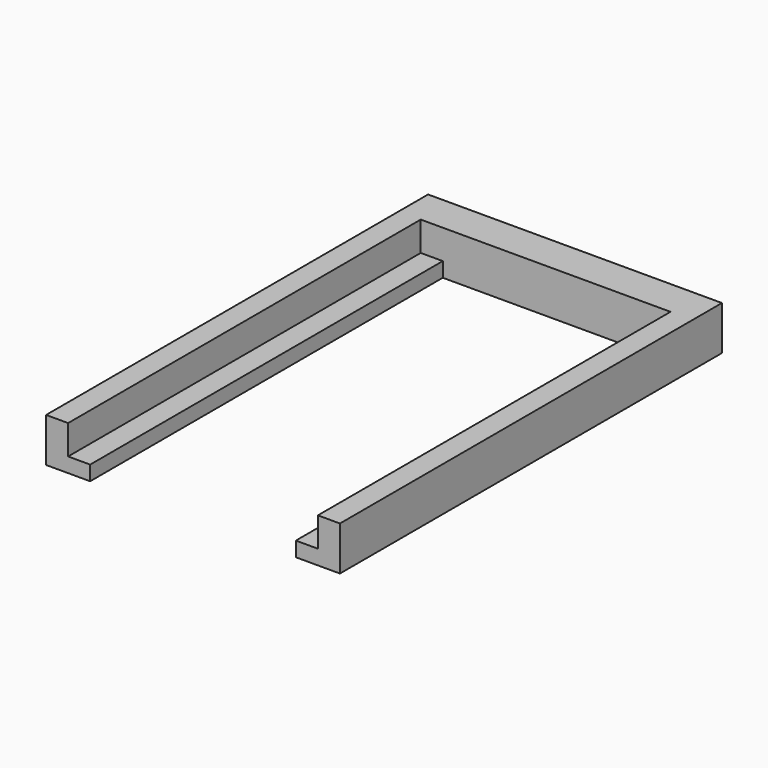
from build123d import *

# Parameters (mm, degrees)
F0_W     = 50.8
F0_H     = 7.62
F1_DEPTH = 6.35
F3_DEPTH = 76.2
F4_W     = 25.4
F4_H     = 5.08
F5_DEPTH = 3.175
F6_W     = 22.86
F6_H     = 2.54
F7_DEPTH = 3.175


with BuildPart() as f1:
    # F0 (on Front) → F1 (new body)
    with BuildSketch(Plane.XZ):
        Rectangle(F0_W, F0_H)
    extrude(amount=F1_DEPTH)

    # F2 (on face) → F3 (join)
    with BuildSketch(Plane.XZ.offset(6.35)):
        Polygon((-21.59, -1.27), (-21.59, 3.81), (-25.4, 3.81), (-25.4, -3.81), (-17.78, -3.81), (-17.78, -1.27), align=None)
        Polygon((25.4, 3.81), (21.59, 3.81), (21.59, -1.27), (17.78, -1.27), (17.78, -3.81), (25.4, -3.81), align=None)
    extrude(amount=F3_DEPTH)

    # F4 (on face) → F5 (cut)
    with BuildSketch(Plane(origin=(0, 0, 0), x_dir=(-1, 0, 0), z_dir=(0, 1, 0))):
        Rectangle(F4_W, F4_H)
    extrude(amount=-F5_DEPTH, mode=Mode.SUBTRACT)


with BuildPart() as f7:
    # F6 (on face) → F7 (new body)
    with BuildSketch(Plane(origin=(0, -3.175, 0), x_dir=(-1, 0, 0), z_dir=(0, 1, 0))):
        Rectangle(F6_W, F6_H)
    extrude(amount=F7_DEPTH)


solid = Compound([f1.part, f7.part])
